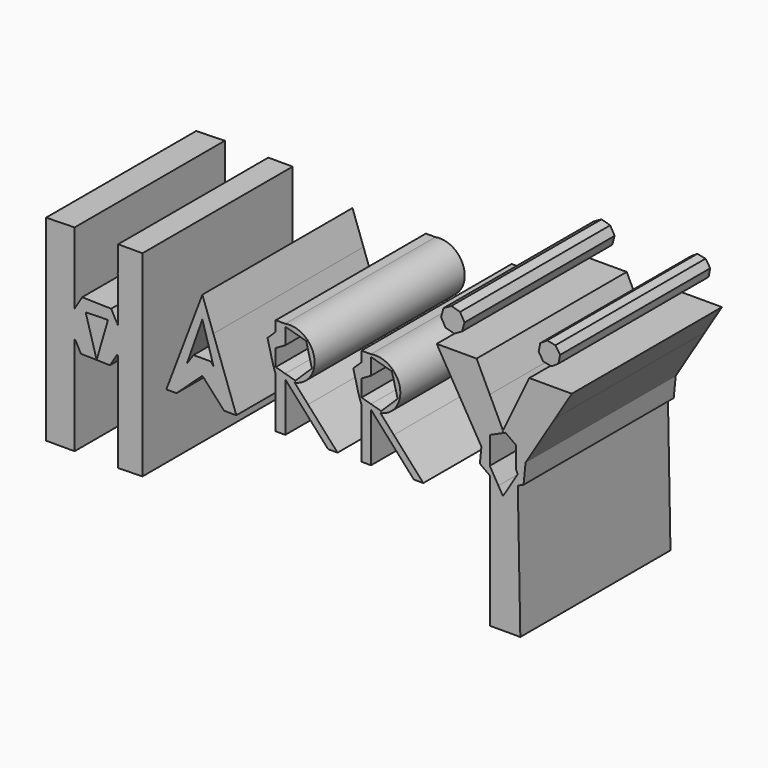
from build123d import *

# Parameters (mm, degrees)
F1_DEPTH = 50.8


with BuildPart() as f1:
    # F0 (on Front) → F1 (new body)
    with BuildSketch(Plane.XZ):
        Polygon((-58.8298365474, 29.786439916), (-66.5548071265, 37.3154692352), (-66.5548071265, 18.4631307041), align=None)
        Polygon((-58.8298365474, 37.4993979931), (-66.5548071265, 37.3154692352), (-58.8298365474, 29.786439916), align=None)
        Polygon((-58.8298365474, 10.8298631385), (-66.5548071265, 18.4631307041), (-66.5548071265, 3.0120878626), align=None)
        Polygon((-58.8298365474, 29.786439916), (-66.5548071265, 18.4631307041), (-58.8298365474, 10.8298631385), (-58.8298365474, 11.0889577304), (-60.8739337508, 14.8388091705), (-58.8298365474, 18.1869771332), align=None)
        Polygon((-58.8298365474, -6.2754247338), (-66.5548071265, 3.0120878626), (-66.5548071265, -15.8396717161), align=None)
        Polygon((-58.8298365474, 10.8298631385), (-66.5548071265, 3.0120878626), (-58.8298365474, -6.2754247338), align=None)
        Polygon((-58.8298365474, 11.0889577304), (-58.8298365474, 10.8298631385), (-58.6886004107, 10.8298631385), align=None)
        Polygon((-55.8463617032, 18.2580125911), (-58.8298365474, 18.1869771332), (-58.8298365474, 11.0889577304), (-58.6886004107, 10.8298631385), (-53.7171107503, 10.8298631385), align=None)
        Polygon((-56.785739344, 21.5351450958), (-58.8298365474, 18.1869771332), (-55.8463617032, 18.2580125911), align=None)
        Polygon((-58.8298365474, 11.0889577304), (-58.8298365474, 18.1869771332), (-60.8739337508, 14.8388091705), align=None)
        Polygon((-58.8298365474, -6.2754247338), (-66.5548071265, -15.8396717161), (-58.8298365474, -15.8396717161), align=None)
        Polygon((-53.7171107503, 10.8298631385), (-58.6886004107, 10.8298631385), (-57.1188339306, 7.9501609961), (-49.2755397037, 7.7578487468), (-47.4000376092, 10.8298631385), (-51.9989120974, 10.8298631385), (-52.8640922305, 7.8540048714), align=None)
        Polygon((-56.785739344, 21.5351450958), (-55.8463617032, 18.2580125911), (-49.7974319066, 18.4020354236), (-48.9424451171, 21.3428328465), align=None)
        Polygon((-48.9424451171, 21.3428328465), (-49.7974319066, 18.4020354236), (-47.3708690241, 18.4598110089), align=None)
        Polygon((-47.3708690241, 18.4598110089), (-49.7974319066, 18.4020354236), (-51.9989120974, 10.8298631385), (-47.4000376092, 10.8298631385), (-47.0628473915, 11.3821702804), (-47.2249917962, 18.1922024371), align=None)
        Polygon((-47.2314425003, 18.4631307041), (-47.3708690241, 18.4598110089), (-47.2249917962, 18.1922024371), align=None)
        Polygon((-47.0628473915, 11.3821702804), (-47.4000376092, 10.8298631385), (-47.049697158, 10.8298631385), align=None)
        Polygon((-47.049697158, 17.8706282721), (-47.2249917962, 18.1922024371), (-47.0628473915, 11.3821702804), (-47.049697158, 11.4037099558), align=None)
        Polygon((-40.4583076052, 5.1381438499), (-47.049697158, 10.8298631385), (-47.049697158, -5.723641254), align=None)
        Polygon((-47.0628473915, 11.3821702804), (-47.049697158, 10.8298631385), (-47.049697158, 11.4037099558), align=None)
        Polygon((-47.049697158, 11.4037099558), (-47.049697158, 10.8298631385), (-40.4583076052, 18.4631307041), (-47.049697158, 30.0335602085), (-47.049697158, 17.8706282721), (-45.187345297, 14.454184672), align=None)
        Polygon((-40.4583076052, 18.4631307041), (-47.049697158, 10.8298631385), (-40.4583076052, 5.1381438499), align=None)
        Polygon((-45.187345297, 14.454184672), (-47.049697158, 17.8706282721), (-47.049697158, 11.4037099558), align=None)
        Polygon((-40.4583076052, -15.866660008), (-47.049697158, -5.723641254), (-47.049697158, -16.0235986114), align=None)
        Polygon((-40.4583076052, 5.1381438499), (-47.049697158, -5.723641254), (-40.4583076052, -15.866660008), align=None)
        Polygon((-47.049697158, 30.0335602085), (-40.4583076052, 18.4631307041), (-40.4583076052, 37.3154692352), (-47.049697158, 30.5394300565), align=None)
        Polygon((-47.2314425003, 30.3525933432), (-47.049697158, 30.0335602085), (-47.049697158, 30.5394300565), align=None)
        Polygon((-47.049697158, 30.5394300565), (-40.4583076052, 37.3154692352), (-47.049697158, 37.3154692352), align=None)
    extrude(amount=F1_DEPTH)


with BuildPart() as f1b:
    # F0 (on Front) → F1, piece 2 (new body)
    with BuildSketch(Plane.XZ):
        Polygon((-24.2514032871, 26.8315859139), (-24.2514032871, 32.7172726393), (-27.4069766335, 24.3817956818), align=None)
        Polygon((-21.2761012771, 24.3864267705), (-24.2514032871, 32.7172726393), (-24.2514032871, 26.8315859139), align=None)
        Polygon((-26.852971582, 19.437654277), (-27.4069766335, 24.3817956818), (-33.9995771646, 6.9673787802), (-28.4185056166, 14.9882413403), align=None)
        Polygon((-24.2514032871, 26.8315859139), (-27.4069766335, 24.3817956818), (-26.852971582, 19.437654277), align=None)
        Polygon((-21.7807631904, 18.4931748057), (-21.2761012771, 24.3864267705), (-24.2514032871, 26.8315859139), align=None)
        Polygon((-15.0550128892, 6.9673787802), (-21.2761012771, 24.3864267705), (-21.7807631904, 18.4931748057), (-21.189810511, 16.4987093259), align=None)
        Polygon((-28.4185056166, 14.9882413403), (-33.9995771646, 6.9673787802), (-31.2406606972, 6.9673787802), align=None)
        Polygon((-18.3657128364, 6.9673787802), (-15.0550128892, 6.9673787802), (-21.189810511, 16.4987093259), align=None)
        Polygon((-28.4185056166, 14.9882413403), (-31.2406606972, 6.9673787802), (-24.2514032871, 13.4048527107), (-26.6406958413, 17.5432288088), align=None)
        Polygon((-21.8621107328, 17.5432288088), (-26.6406958413, 17.5432288088), (-24.2514032871, 13.4048527107), align=None)
        Polygon((-24.2514032871, 13.4048527107), (-18.3657128364, 6.9673787802), (-21.189810511, 16.4987093259), (-21.8621107328, 17.5432288088), align=None)
    extrude(amount=F1_DEPTH)


with BuildPart() as f1c:
    # F0 (on Front) → F1, piece 3 (new body)
    with BuildSketch(Plane.XZ):
        Polygon((-1.8122101901, 33.0851301551), (-4.3871989474, 33.0851301551), (-4.3871989474, 30.326211825), (-2.1571931011, 32.5069151583), (-1.8122101901, 32.4103317998), align=None)
        Polygon((-2.1571931011, 32.5069151583), (-4.3871989474, 30.326211825), (-4.3871989474, 26.4637283981), (-1.8122101901, 27.9503988502), (-1.8122101901, 32.4103317998), align=None)
        Polygon((-4.3871989474, 26.4637283981), (-4.3871989474, 30.326211825), (-6.6172047936, 28.1455084917), (-5.0701216704, 22.1023217315), (-4.3871989474, 21.91112684), align=None)
        with BuildLine():
            ThreePointArc((0.5919902344, 19.8423266411), (6.0112917792, 27.6658286104), (-1.8122101901, 33.0851301551))
            Line((-1.8122101901, 33.0851301551), (-1.8122101901, 32.4103317998))
            Line((-1.8122101901, 32.4103317998), (3.8499017147, 30.8251350647))
            Line((3.8499017147, 30.8251350647), (5.396984838, 24.7819483045))
            Line((5.396984838, 24.7819483045), (0.9369731454, 20.4205416378))
            Line((0.9369731454, 20.4205416378), (-1.8122101901, 21.1902184865))
            Line((-1.8122101901, 21.1902184865), (-1.8122101901, 19.8423266411))
            Line((-1.8122101901, 19.8423266411), (0.5919902344, 19.8423266411))
        make_face()
        with BuildLine():
            Line((0.7627803134, 19.8423266411), (0.5919902344, 19.8423266411))
            ThreePointArc((0.5919902344, 19.8423266411), (-0.6101099778, 19.7340919928), (-1.8122101901, 19.8423266411))
            Line((-1.8122101901, 19.8423266411), (4.3589192338, 15.8466170106))
            Line((4.3589192338, 15.8466170106), (0.7627803134, 19.8423266411))
        make_face()
        with BuildLine():
            ThreePointArc((-1.8122101901, 19.8423266411), (-0.6101099778, 19.7340919928), (0.5919902344, 19.8423266411))
            Line((0.5919902344, 19.8423266411), (-1.8122101901, 19.8423266411))
        make_face()
        Polygon((-1.8122101901, 21.1902184865), (-4.3871989474, 21.91112684), (-4.3871989474, 20.1901380517), (-1.8122101901, 12.9801693227), (-1.8122101901, 19.8423266411), align=None)
        Polygon((-4.3871989474, 20.1901380517), (-4.3871989474, 21.91112684), (-5.0701216704, 22.1023217315), align=None)
        Polygon((4.3589192338, 15.8466170106), (-1.8122101901, 19.8423266411), (6.0529916546, 11.1032140948), align=None)
        Polygon((-1.8122101901, 12.9801693227), (-4.3871989474, 20.1901380517), (-4.3871989474, 6.5995231271), align=None)
        Polygon((-1.8122101901, 6.5995231271), (-1.8122101901, 12.9801693227), (-4.3871989474, 6.5995231271), align=None)
        Polygon((12.350234203, 6.9673787802), (6.0529916546, 11.1032140948), (9.7752436996, 6.9673787802), align=None)
        Polygon((4.3589192338, 15.8466170106), (6.0529916546, 11.1032140948), (12.350234203, 6.9673787802), align=None)
    extrude(amount=F1_DEPTH)


with BuildPart() as f1d:
    # F0 (on Front) → F1, piece 4 (new body)
    with BuildSketch(Plane.XZ):
        Polygon((21.4019286279, 33.388309678), (18.8269398706, 33.388309678), (18.8269398706, 30.6293913479), (21.0569457169, 32.8100946813), (21.4019286279, 32.7135113227), align=None)
        Polygon((21.0569457169, 32.8100946813), (18.8269398706, 30.6293913479), (18.8269398706, 26.766907921), (21.4019286279, 28.2535783732), (21.4019286279, 32.7135113227), align=None)
        Polygon((18.8269398706, 26.766907921), (18.8269398706, 30.6293913479), (16.5969340243, 28.4486880146), (18.1440171476, 22.4055012544), (18.8269398706, 22.214306363), align=None)
        with BuildLine():
            ThreePointArc((23.8061290524, 20.145506164), (29.2254305972, 27.9690081333), (21.4019286279, 33.388309678))
            Line((21.4019286279, 33.388309678), (21.4019286279, 32.7135113227))
            Line((21.4019286279, 32.7135113227), (27.0640405327, 31.1283145876))
            Line((27.0640405327, 31.1283145876), (28.611123656, 25.0851278274))
            Line((28.611123656, 25.0851278274), (24.1511119634, 20.7237211608))
            Line((24.1511119634, 20.7237211608), (21.4019286279, 21.4933980094))
            Line((21.4019286279, 21.4933980094), (21.4019286279, 20.145506164))
            Line((21.4019286279, 20.145506164), (23.8061290524, 20.145506164))
        make_face()
        with BuildLine():
            Line((23.9769191314, 20.145506164), (23.8061290524, 20.145506164))
            ThreePointArc((23.8061290524, 20.145506164), (22.6040288402, 20.0372715157), (21.4019286279, 20.145506164))
            Line((21.4019286279, 20.145506164), (27.5730580518, 16.1497965335))
            Line((27.5730580518, 16.1497965335), (23.9769191314, 20.145506164))
        make_face()
        with BuildLine():
            ThreePointArc((21.4019286279, 20.145506164), (22.6040288402, 20.0372715157), (23.8061290524, 20.145506164))
            Line((23.8061290524, 20.145506164), (21.4019286279, 20.145506164))
        make_face()
        Polygon((21.4019286279, 21.4933980094), (18.8269398706, 22.214306363), (18.8269398706, 20.4933175746), (21.4019286279, 13.2833488456), (21.4019286279, 20.145506164), align=None)
        Polygon((18.8269398706, 20.4933175746), (18.8269398706, 22.214306363), (18.1440171476, 22.4055012544), align=None)
        Polygon((27.5730580518, 16.1497965335), (21.4019286279, 20.145506164), (29.2671304726, 11.4063936178), align=None)
        Polygon((21.4019286279, 13.2833488456), (18.8269398706, 20.4933175746), (18.8269398706, 6.90270265), align=None)
        Polygon((21.4019286279, 6.90270265), (21.4019286279, 13.2833488456), (18.8269398706, 6.90270265), align=None)
        Polygon((35.564373021, 7.2705583032), (29.2671304726, 11.4063936178), (32.9893825175, 7.2705583032), align=None)
        Polygon((27.5730580518, 16.1497965335), (29.2671304726, 11.4063936178), (35.564373021, 7.2705583032), align=None)
    extrude(amount=F1_DEPTH)


with BuildPart() as f1e:
    # F0 (on Front) → F1, piece 5 (new body)
    with BuildSketch(Plane.XZ):
        Polygon((53.5459388047, 34.2291295528), (39.1821190715, 41.6286699474), (43.5372782257, 34.2291295528), align=None)
        Polygon((49.976747483, 41.6286699474), (39.1821190715, 41.6286699474), (53.5459388047, 34.2291295528), align=None)
        Polygon((53.5459388047, 34.2291295528), (43.5372782257, 34.2291295528), (51.2814756196, 21.0715159248), (51.5437088907, 23.6956626177), (53.5459388047, 24.599423428), align=None)
        Polygon((57.1151301265, 26.8295891583), (53.5459388047, 34.2291295528), (57.029432304, 26.5989578941), align=None)
        Polygon((57.029432304, 26.5989578941), (53.5459388047, 34.2291295528), (53.5459388047, 24.599423428), (56.8387197767, 26.0857094825), align=None)
        Polygon((51.5437088907, 23.6956626177), (51.2814756196, 21.0715159248), (53.5459388047, 17.2241279839), (53.5459388047, 24.599423428), align=None)
        Polygon((53.5459388047, 17.2241279839), (51.2814756196, 21.0715159248), (50.8614587952, 16.8684422409), (53.5459388047, 14.9389736363), align=None)
        Polygon((60.6843195856, 34.2291295528), (57.1151301265, 26.8295891583), (57.3395310288, 26.3117642327), (57.797380222, 26.5184268916), (60.6843195856, 24.4434407321), align=None)
        Polygon((57.3395310288, 26.3117642327), (57.1151301265, 26.8295891583), (57.029432304, 26.5989578941), (57.1911297067, 26.2447792685), align=None)
        Polygon((55.8770647699, 13.2634780665), (53.5459388047, 17.2241279839), (53.5459388047, 14.9389736363), align=None)
        Polygon((64.2535090446, 41.6286699474), (60.6843195856, 34.2291295528), (75.744561851, 41.6286699474), align=None)
        Polygon((71.2202719889, 34.2291295528), (60.6843195856, 34.2291295528), (60.6843195856, 24.4434407321), (63.3688014578, 22.5139707888), (63.2342919986, 21.1679457361), align=None)
        Polygon((75.744561851, 41.6286699474), (60.6843195856, 34.2291295528), (71.2202719889, 34.2291295528), align=None)
        Polygon((57.1151301265, 11.1599694937), (55.8770647699, 13.2634780665), (53.5459388047, 14.9389736363), (53.5459388047, -20.8756942302), align=None)
        Polygon((61.1394485812, 14.9884235849), (61.0890615882, 17.6593908996), (58.8142313342, 13.9388736763), align=None)
        Polygon((60.6843195856, 18.5933688616), (61.0890615882, 17.6593908996), (63.2342919986, 21.1679457361), (63.3688014578, 22.5139707888), (60.6843195856, 24.4434407321), align=None)
        Polygon((63.2342919986, 21.1679457361), (61.0890615882, 17.6593908996), (61.1394485812, 14.9884235849), (62.6865513623, 15.686750412), align=None)
        Polygon((57.4633404613, 10.2894352749), (57.1151301265, 11.1599694937), (53.5459388047, -20.8756942302), (61.8160143495, -20.8756942302), align=None)
        Polygon((58.8142313342, 13.9388736763), (57.1151301265, 11.1599694937), (57.4633404613, 10.2894352749), (61.8160143495, -20.8756942302), (61.1394485812, 14.9884235849), align=None)
    extrude(amount=F1_DEPTH)


with BuildPart() as f1f:
    # F0 (on Front) → F1, piece 6 (new body)
    with BuildSketch(Plane.XZ):
        Polygon((43.9176031324, 45.6142562554), (46.0443124175, 46.8102395535), (46.7024350744, 49.1597380108), (45.5064517763, 51.2864472959), (43.1569533189, 51.9445699527), (41.0302440339, 50.7485866547), (40.372121377, 48.3990881973), (41.5681046751, 46.2723789122), align=None)
    extrude(amount=F1_DEPTH)


with BuildPart() as f1g:
    # F0 (on Front) → F1, piece 7 (new body)
    with BuildSketch(Plane.XZ):
        Polygon((70.2545850033, 46.3708363733), (72.1358805895, 47.6307272911), (72.5752800444, 49.8518815691), (71.3153891265, 51.7331771553), (69.0942348486, 52.1725766101), (67.2129392624, 50.9126856923), (66.7735398075, 48.6915314144), (68.0334307253, 46.8102358282), align=None)
    extrude(amount=F1_DEPTH)


solid = Compound([f1.part, f1b.part, f1c.part, f1d.part, f1e.part, f1f.part, f1g.part])
